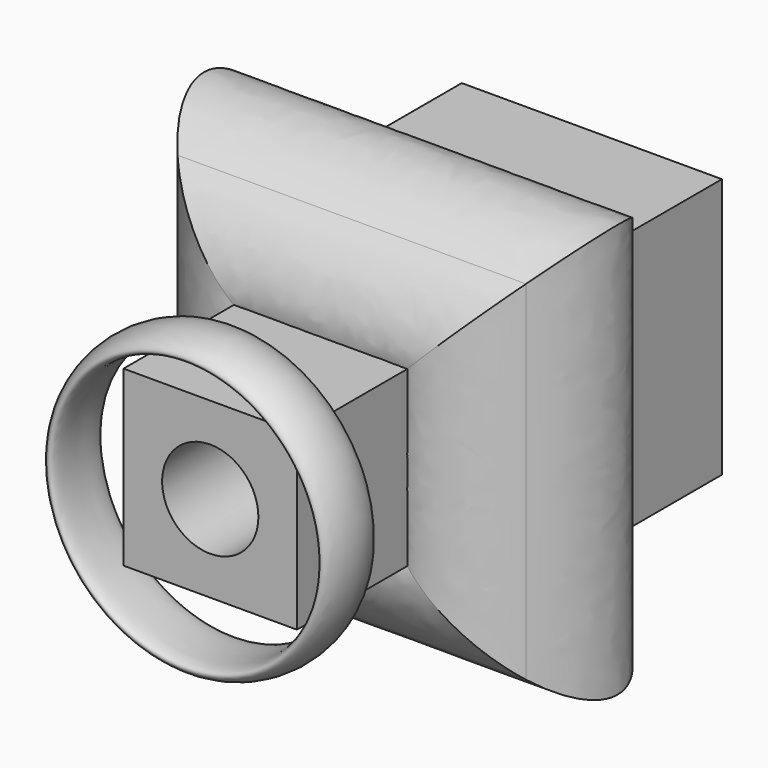
from build123d import *

# Parameters (mm, degrees)
F0_W     = 76.2
F0_H     = 76.2
F1_DEPTH = 76.2
F4_W     = 50.8
F4_H     = 50.8
F4_R     = 14.097
F5_DEPTH = 63.5
F6_R     = 9.3094608955


with BuildPart() as f1:
    # F0 (on Front) → F1 (new body)
    with BuildSketch(Plane.XZ):
        with Locations((38.1, 38.1)):
            Rectangle(F0_W, F0_H)
    extrude(amount=F1_DEPTH)


with BuildPart() as f3:
    # F3: sweep along a path in F3_path
    with BuildLine(Plane(origin=(76.2, -76.2, 0), x_dir=(0, 0, -1), z_dir=(0, 1, 0))) as f3_path:
        Line((0, 0), (-76.2, 0))
        Line((-76.2, 0), (-76.2, 76.2))
        Line((-76.2, 76.2), (0, 76.2))
        Line((0, 76.2), (0, 0))
    # F2 (on face) → F3 (sweep)
    with BuildSketch(Plane.XY.offset(76.2)):
        with BuildLine():
            add(Edge.make_bspline(
                [(55.8366239654, -76.2), (48.5446656318, -94.2144174451), (61.778634979, -98.8584440366), (75.0126043261, -103.5024706281), (89.1278646896, -87.8824667741)],
                knots=[2.0922750464, 2.0922750464, 2.0922750464, 3.4023320134, 3.4023320134, 4.7123889804, 4.7123889804, 4.7123889804], degree=2, weights=[1, 0.7930305768, 1, 0.7930305768, 1]))
            add(Edge.make_bspline(
                [(89.1278646896, -87.8824667741), (147.1798123768, -23.6419481255), (76.2, -54.9449046118)],
                knots=[4.7123889804, 4.7123889804, 4.7123889804, 7.2408771481, 7.2408771481, 7.2408771481], degree=2, weights=[1, 0.301773415, 1]))
            Line((76.2, -54.9449046118), (76.2, -76.2))
            Line((76.2, -76.2), (55.8366239654, -76.2))
        make_face()
        with BuildLine():
            Line((76.2, -76.2), (76.2, -54.9449046118))
            add(Edge.make_bspline(
                [(76.2, -54.9449046118), (61.8849001561, -61.2580369308), (55.8366239654, -76.2)],
                knots=[0.957691841, 0.957691841, 0.957691841, 2.0922750464, 2.0922750464, 2.0922750464], degree=2, weights=[1, 0.8433594235, 1]))
            Line((55.8366239654, -76.2), (76.2, -76.2))
        make_face()
    sweep(path=f3_path.line, transition=Transition.RIGHT)


with BuildPart() as f5:
    # F4 (on face) → F5 (new body)
    with BuildSketch(Plane.XZ.offset(76.2)):
        with Locations((38.1, 38.1)):
            Rectangle(F4_W, F4_H)
        with Locations((38.1, 38.1)):
            Circle(F4_R, mode=Mode.SUBTRACT)
    extrude(amount=F5_DEPTH)


with BuildPart() as f7:
    # F6 (on Right) → F7 (revolve)
    with BuildSketch(Plane.YZ):
        with Locations((-139.8051977158, 26.1433124542)):
            Circle(F6_R)
    revolve(axis=Axis((38.1, -139.7, 38.1), (0, -1, 0)))


solid = Compound([f1.part, f3.part, f5.part, f7.part])
